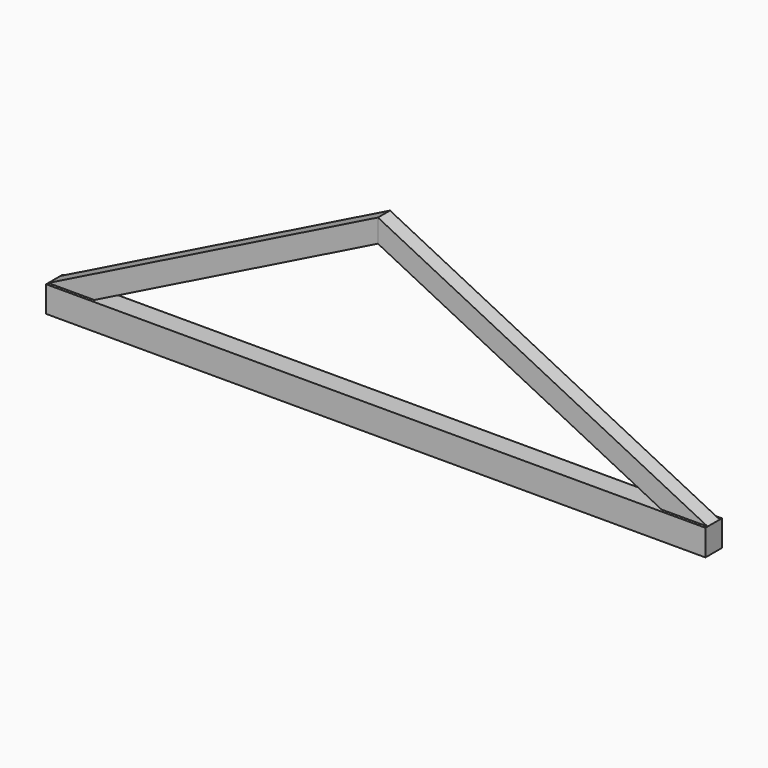
from build123d import *

# Parameters (mm, degrees)
F1_DEPTH = 95.25
F2_DEPTH = 69.85


with BuildPart() as f1:
    # F0 (on Front) → F1 (new body, symmetric)
    with BuildSketch(Plane.XZ):
        Polygon((0, -241.3), (0, 0), (-2622.02905, 0), (-2758.339754, -68.155352), (-2792.41743, 0), (-3048, 0), (-3048, -241.3), align=None)
        Polygon((2622.02905, 0), (0, 0), (0, -241.3), (3048, -241.3), (3048, 0), align=None)
        Polygon((-2758.339754, -68.155352), (-2622.02905, 0), (-2792.41743, 0), align=None)
    extrude(amount=F1_DEPTH, both=True)


with BuildPart() as f2:
    # F0 (on Front) → F2 (new body, symmetric)
    with BuildSketch(Plane.XZ):
        Polygon((-2622.02905, 0), (0, 1311.014525), (0, 1524), (-304.8, 1371.6), (-3048, 0), (-2792.41743, 0), align=None)
        Polygon((-2758.339754, -68.155352), (-2622.02905, 0), (-2792.41743, 0), align=None)
    extrude(amount=F2_DEPTH, both=True)


with BuildPart() as f3_1:
    # F3: instance of F2
    add(f2.part.mirror(Plane.YZ))


with BuildPart() as f1_1:
    add(f1.part)

    # F4: cut F2, F3_1
    add(f2.part, mode=Mode.SUBTRACT)
    add(f3_1.part, mode=Mode.SUBTRACT)


solid = Compound([f2.part, f3_1.part, f1_1.part])
